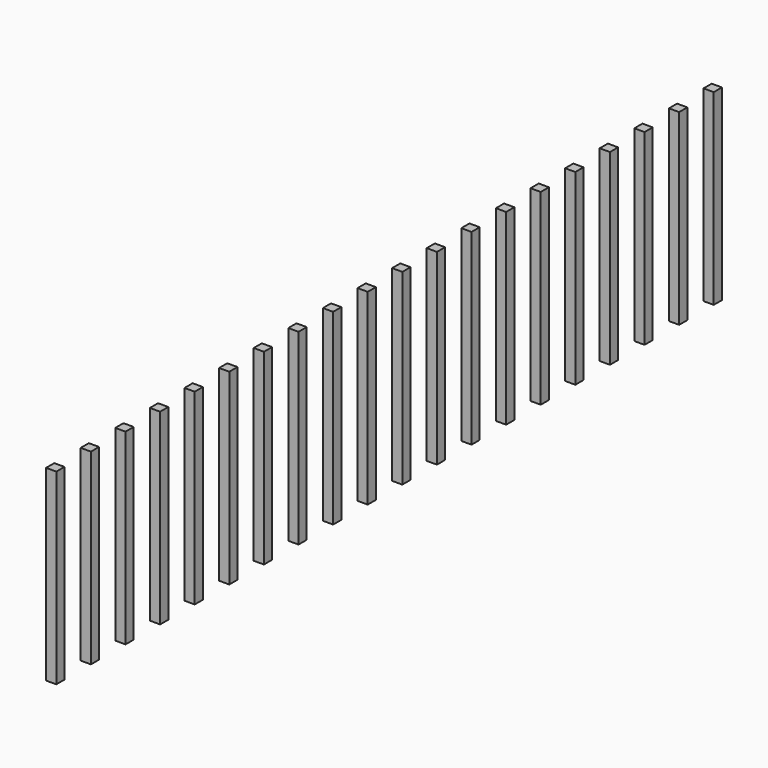
from build123d import *

# Parameters (mm, degrees)
BOX024_W     = 0.6
BOX024_H     = 0.6
BOX024_DEPTH = 11
BOX029_W     = 0.6
BOX029_H     = 0.6
BOX029_DEPTH = 11
BOX034_W     = 0.6
BOX034_H     = 0.6
BOX034_DEPTH = 11
BOX036_W     = 0.6
BOX036_H     = 0.6
BOX036_DEPTH = 11
BOX023_W     = 0.6
BOX023_H     = 0.6
BOX023_DEPTH = 11
BOX035_W     = 0.6
BOX035_H     = 0.6
BOX035_DEPTH = 11
BOX032_W     = 0.6
BOX032_H     = 0.6
BOX032_DEPTH = 11
BOX033_W     = 0.6
BOX033_H     = 0.6
BOX033_DEPTH = 11
BOX028_W     = 0.6
BOX028_H     = 0.6
BOX028_DEPTH = 11
BOX040_W     = 0.6
BOX040_H     = 0.6
BOX040_DEPTH = 11
BOX031_W     = 0.6
BOX031_H     = 0.6
BOX031_DEPTH = 11
BOX030_W     = 0.6
BOX030_H     = 0.6
BOX030_DEPTH = 11
BOX025_W     = 0.6
BOX025_H     = 0.6
BOX025_DEPTH = 11
BOX026_W     = 0.6
BOX026_H     = 0.6
BOX026_DEPTH = 11
BOX027_W     = 0.6
BOX027_H     = 0.6
BOX027_DEPTH = 11
BOX037_W     = 0.6
BOX037_H     = 0.6
BOX037_DEPTH = 11
BOX038_W     = 0.6
BOX038_H     = 0.6
BOX038_DEPTH = 11
BOX039_W     = 0.6
BOX039_H     = 0.6
BOX039_DEPTH = 11
BOX042_W     = 0.6
BOX042_H     = 0.6
BOX042_DEPTH = 11
BOX041_W     = 0.6
BOX041_H     = 0.6
BOX041_DEPTH = 11


with BuildPart() as obj1:
    # Box024 → Box024 (new body)
    with BuildSketch(Plane(origin=(-0.3, -2.84, 0), x_dir=(1, 0, 0), z_dir=(0, 0, 1))):
        with Locations((0.3, 0.3)):
            Rectangle(BOX024_W, BOX024_H)
    extrude(amount=BOX024_DEPTH)


with BuildPart() as obj2:
    # Box029 → Box029 (new body)
    with BuildSketch(Plane(origin=(-0.3, -5.38, 0), x_dir=(1, 0, 0), z_dir=(0, 0, 1))):
        with Locations((0.3, 0.3)):
            Rectangle(BOX029_W, BOX029_H)
    extrude(amount=BOX029_DEPTH)


with BuildPart() as obj3:
    # Box034 → Box034 (new body)
    with BuildSketch(Plane(origin=(-0.3, -7.92, 0), x_dir=(1, 0, 0), z_dir=(0, 0, 1))):
        with Locations((0.3, 0.3)):
            Rectangle(BOX034_W, BOX034_H)
    extrude(amount=BOX034_DEPTH)


with BuildPart() as obj4:
    # Box036 → Box036 (new body)
    with BuildSketch(Plane(origin=(-0.3, -10.46, 0), x_dir=(1, 0, 0), z_dir=(0, 0, 1))):
        with Locations((0.3, 0.3)):
            Rectangle(BOX036_W, BOX036_H)
    extrude(amount=BOX036_DEPTH)


with BuildPart() as fusion005:
    # Box023 → Box023 (new body)
    with BuildSketch(Plane(origin=(-0.3, -0.3, 0), x_dir=(1, 0, 0), z_dir=(0, 0, 1))):
        with Locations((0.3, 0.3)):
            Rectangle(BOX023_W, BOX023_H)
    extrude(amount=BOX023_DEPTH)

    # Fusion005: union obj1, obj2, obj3, obj4
    add(obj1.part)
    add(obj2.part)
    add(obj3.part)
    add(obj4.part)


with BuildPart() as fusion005_1:
    # Fusion005 placement: moved
    add(fusion005.part.moved(Location((0, -12.7, 0))))


with BuildPart() as obj5:
    # Box035 → Box035 (new body)
    with BuildSketch(Plane(origin=(-0.3, -2.84, 0), x_dir=(1, 0, 0), z_dir=(0, 0, 1))):
        with Locations((0.3, 0.3)):
            Rectangle(BOX035_W, BOX035_H)
    extrude(amount=BOX035_DEPTH)


with BuildPart() as obj6:
    # Box032 → Box032 (new body)
    with BuildSketch(Plane(origin=(-0.3, -5.38, 0), x_dir=(1, 0, 0), z_dir=(0, 0, 1))):
        with Locations((0.3, 0.3)):
            Rectangle(BOX032_W, BOX032_H)
    extrude(amount=BOX032_DEPTH)


with BuildPart() as obj7:
    # Box033 → Box033 (new body)
    with BuildSketch(Plane(origin=(-0.3, -7.92, 0), x_dir=(1, 0, 0), z_dir=(0, 0, 1))):
        with Locations((0.3, 0.3)):
            Rectangle(BOX033_W, BOX033_H)
    extrude(amount=BOX033_DEPTH)


with BuildPart() as obj8:
    # Box028 → Box028 (new body)
    with BuildSketch(Plane(origin=(-0.3, -10.46, 0), x_dir=(1, 0, 0), z_dir=(0, 0, 1))):
        with Locations((0.3, 0.3)):
            Rectangle(BOX028_W, BOX028_H)
    extrude(amount=BOX028_DEPTH)


with BuildPart() as fusion008:
    # Box040 → Box040 (new body)
    with BuildSketch(Plane(origin=(-0.3, -0.3, 0), x_dir=(1, 0, 0), z_dir=(0, 0, 1))):
        with Locations((0.3, 0.3)):
            Rectangle(BOX040_W, BOX040_H)
    extrude(amount=BOX040_DEPTH)

    # Fusion008: union obj5, obj6, obj7, obj8
    add(obj5.part)
    add(obj6.part)
    add(obj7.part)
    add(obj8.part)


with BuildPart() as fusion008_1:
    # Fusion008 placement: moved
    add(fusion008.part.moved(Location((0, -38.1, 0))))


with BuildPart() as obj9:
    # Box031 → Box031 (new body)
    with BuildSketch(Plane(origin=(-0.3, -2.84, 0), x_dir=(1, 0, 0), z_dir=(0, 0, 1))):
        with Locations((0.3, 0.3)):
            Rectangle(BOX031_W, BOX031_H)
    extrude(amount=BOX031_DEPTH)


with BuildPart() as obj10:
    # Box030 → Box030 (new body)
    with BuildSketch(Plane(origin=(-0.3, -5.38, 0), x_dir=(1, 0, 0), z_dir=(0, 0, 1))):
        with Locations((0.3, 0.3)):
            Rectangle(BOX030_W, BOX030_H)
    extrude(amount=BOX030_DEPTH)


with BuildPart() as obj11:
    # Box025 → Box025 (new body)
    with BuildSketch(Plane(origin=(-0.3, -7.92, 0), x_dir=(1, 0, 0), z_dir=(0, 0, 1))):
        with Locations((0.3, 0.3)):
            Rectangle(BOX025_W, BOX025_H)
    extrude(amount=BOX025_DEPTH)


with BuildPart() as obj12:
    # Box026 → Box026 (new body)
    with BuildSketch(Plane(origin=(-0.3, -10.46, 0), x_dir=(1, 0, 0), z_dir=(0, 0, 1))):
        with Locations((0.3, 0.3)):
            Rectangle(BOX026_W, BOX026_H)
    extrude(amount=BOX026_DEPTH)


with BuildPart() as fusion009:
    # Box027 → Box027 (new body)
    with BuildSketch(Plane(origin=(-0.3, -0.3, 0), x_dir=(1, 0, 0), z_dir=(0, 0, 1))):
        with Locations((0.3, 0.3)):
            Rectangle(BOX027_W, BOX027_H)
    extrude(amount=BOX027_DEPTH)

    # Fusion009: union obj9, obj10, obj11, obj12
    add(obj9.part)
    add(obj10.part)
    add(obj11.part)
    add(obj12.part)


with BuildPart() as fusion009_1:
    # Fusion009 placement: moved
    add(fusion009.part.moved(Location((0, -25.4, 0))))


with BuildPart() as obj13:
    # Box037 → Box037 (new body)
    with BuildSketch(Plane(origin=(-0.3, -2.84, 0), x_dir=(1, 0, 0), z_dir=(0, 0, 1))):
        with Locations((0.3, 0.3)):
            Rectangle(BOX037_W, BOX037_H)
    extrude(amount=BOX037_DEPTH)


with BuildPart() as obj14:
    # Box038 → Box038 (new body)
    with BuildSketch(Plane(origin=(-0.3, -5.38, 0), x_dir=(1, 0, 0), z_dir=(0, 0, 1))):
        with Locations((0.3, 0.3)):
            Rectangle(BOX038_W, BOX038_H)
    extrude(amount=BOX038_DEPTH)


with BuildPart() as obj15:
    # Box039 → Box039 (new body)
    with BuildSketch(Plane(origin=(-0.3, -7.92, 0), x_dir=(1, 0, 0), z_dir=(0, 0, 1))):
        with Locations((0.3, 0.3)):
            Rectangle(BOX039_W, BOX039_H)
    extrude(amount=BOX039_DEPTH)


with BuildPart() as obj16:
    # Box042 → Box042 (new body)
    with BuildSketch(Plane(origin=(-0.3, -10.46, 0), x_dir=(1, 0, 0), z_dir=(0, 0, 1))):
        with Locations((0.3, 0.3)):
            Rectangle(BOX042_W, BOX042_H)
    extrude(amount=BOX042_DEPTH)


with BuildPart() as fusion007:
    # Box041 → Box041 (new body)
    with BuildSketch(Plane(origin=(-0.3, -0.3, 0), x_dir=(1, 0, 0), z_dir=(0, 0, 1))):
        with Locations((0.3, 0.3)):
            Rectangle(BOX041_W, BOX041_H)
    extrude(amount=BOX041_DEPTH)

    # Fusion006: union obj13, obj14, obj15, obj16
    add(obj13.part)
    add(obj14.part)
    add(obj15.part)
    add(obj16.part)

    # Fusion007: union Fusion005, Fusion008, Fusion009
    add(fusion005_1.part)
    add(fusion008_1.part)
    add(fusion009_1.part)


with BuildPart() as fusion007_1:
    # Fusion007 placement: moved
    add(fusion007.part.moved(Location((15.25, 0, 0))))


solid = fusion007_1.part
